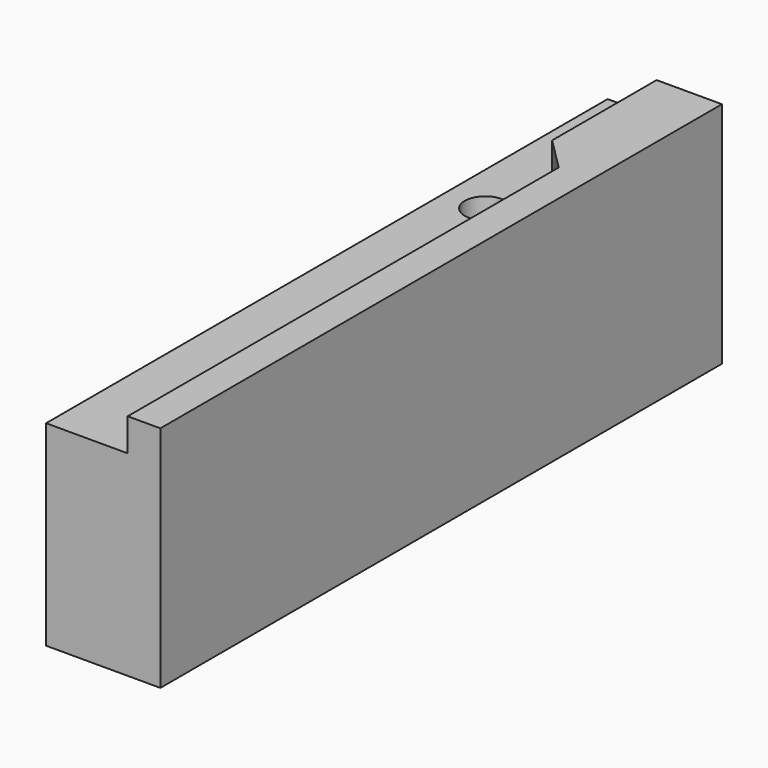
from build123d import *

# Parameters (mm, degrees)
SKETCH003_W     = 7
SKETCH003_H     = 43
PAD001_DEPTH    = 14
POCKET002_DEPTH = 2
SKETCH005_R     = 1.25
POCKET003_DEPTH = 8


with BuildPart() as part:
    # Sketch003 → Pad001 (new body)
    with BuildSketch(Plane.XY):
        with Locations((56.5, 26.5)):
            Rectangle(SKETCH003_W, SKETCH003_H)
    extrude(amount=PAD001_DEPTH)

    # Sketch004 → Pocket002 (cut)
    with BuildSketch(Plane.XY.offset(14)):
        Polygon((56, 48), (56, 40), (58, 38), (58, 5), (53, 5), (53, 48), align=None)
    extrude(amount=-POCKET002_DEPTH, mode=Mode.SUBTRACT)

    # Sketch005 → Pocket003 (cut)
    with BuildSketch(Plane.XY.offset(12)):
        with Locations((55.5, 35.5)):
            Circle(SKETCH005_R)
    extrude(amount=-POCKET003_DEPTH, mode=Mode.SUBTRACT)


solid = part.part
